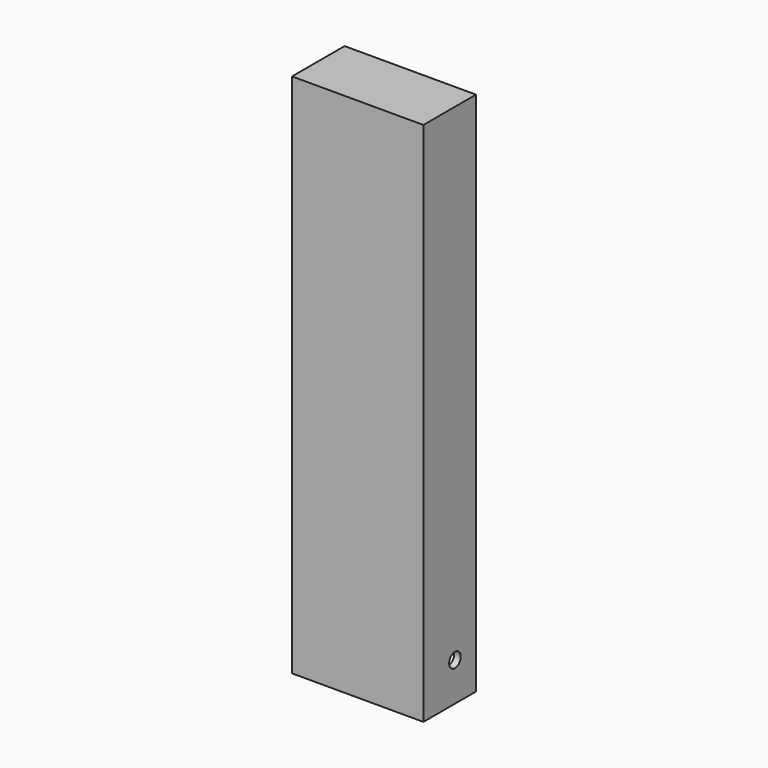
from build123d import *

# Parameters (mm, degrees)
F0_W          = 25.4
F0_H          = 101.6
F1_DEPTH      = 7.62
F1_DEPTH_BACK = 5.08
F2_W          = 22.86
F2_H          = 96.52
F3_DEPTH      = 3.81
F3_DEPTH_BACK = 25.4
F4_R          = 1.397
F5_DEPTH      = 15.24
F5_DEPTH_BACK = 15.24


with BuildPart() as f1:
    # F0 (on Front) → F1 (new body, two sides)
    with BuildSketch(Plane.XZ) as f1_sk:
        Rectangle(F0_W, F0_H)
    extrude(amount=F1_DEPTH)
    extrude(f1_sk.sketch, amount=-F1_DEPTH_BACK)

    # F2 (on Front) → F3 (cut, two sides)
    with BuildSketch(Plane.XZ) as f3_sk:
        Rectangle(F2_W, F2_H)
    extrude(amount=F3_DEPTH, mode=Mode.SUBTRACT)
    extrude(f3_sk.sketch, amount=-F3_DEPTH_BACK, mode=Mode.SUBTRACT)

    # F4 (on Right) → F5 (cut, two sides)
    with BuildSketch(Plane.YZ) as f5_sk:
        with Locations((0, -43.349277)):
            Circle(F4_R)
    extrude(amount=F5_DEPTH, mode=Mode.SUBTRACT)
    extrude(f5_sk.sketch, amount=-F5_DEPTH_BACK, mode=Mode.SUBTRACT)


solid = f1.part
